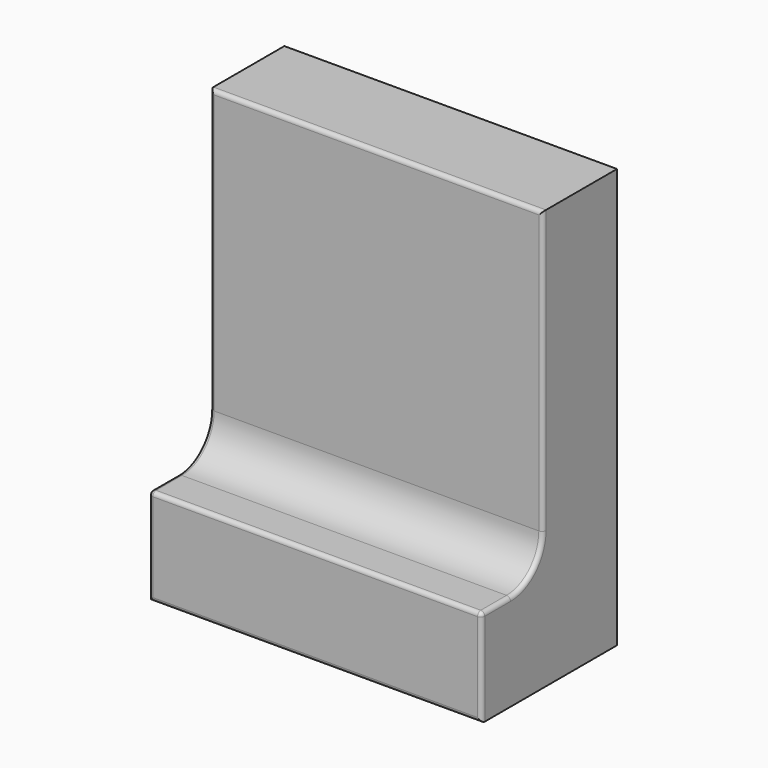
from build123d import *

# Parameters (mm, degrees)
SKETCH_W        = 82.5
SKETCH_H        = 104
PAD_DEPTH       = 23
SKETCH001_W     = 76.6
SKETCH001_H     = 98
POCKET_DEPTH    = 16
SKETCH002_W     = 82.5
SKETCH002_H     = 24
PAD001_DEPTH    = 19
FILLET_R        = 10
FILLET001_R     = 1
FILLET002_R     = 1
SKETCH003_W     = 76.6
SKETCH003_H     = 17
POCKET001_DEPTH = 21
FILLET003_R     = 5


with BuildPart() as part:
    # Sketch → Pad (new body)
    with BuildSketch(Plane.XZ):
        Rectangle(SKETCH_W, SKETCH_H)
    extrude(amount=PAD_DEPTH)

    # Sketch001 → Pocket (cut)
    with BuildSketch(Plane.XZ):
        Rectangle(SKETCH001_W, SKETCH001_H)
    extrude(amount=POCKET_DEPTH, mode=Mode.SUBTRACT)

    # Sketch002 → Pad001 (join)
    with BuildSketch(Plane(origin=(0, -23, 1), x_dir=(1, 0, 0), z_dir=(0, -1, 0))):
        with Locations((0, -41)):
            Rectangle(SKETCH002_W, SKETCH002_H)
    extrude(amount=PAD001_DEPTH)

    # Fillet
    fillet_edges = [part.edges().sort_by_distance(p)[0] for p in [
        (0, -23, -28),
    ]]
    fillet(fillet_edges, radius=FILLET_R)

    # Fillet001
    fillet001_edges = [part.edges().sort_by_distance(p)[0] for p in [
        (41.25, -23, 17),
        (0, -23, 52),
        (-41.25, -23, 17),
    ]]
    fillet(fillet001_edges, radius=FILLET001_R)

    # Fillet002
    fillet002_edges = [part.edges().sort_by_distance(p)[0] for p in [
        (0, -42, -28),
        (-40.957107, -42, -28.292893),
        (40.957107, -42, -28.292893),
        (-41.25, -42, -40.5),
        (41.25, -42, -40.5),
        (0, -42, -52),
    ]]
    fillet(fillet002_edges, radius=FILLET002_R)

    # Sketch003 → Pocket001 (cut)
    with BuildSketch(Plane.XZ.offset(16)):
        with Locations((0, -40.5)):
            Rectangle(SKETCH003_W, SKETCH003_H)
    extrude(amount=POCKET001_DEPTH, mode=Mode.SUBTRACT)

    # Fillet003
    fillet003_edges = [part.edges().sort_by_distance(p)[0] for p in [
        (0, -16, -32),
    ]]
    fillet(fillet003_edges, radius=FILLET003_R)


solid = part.part
